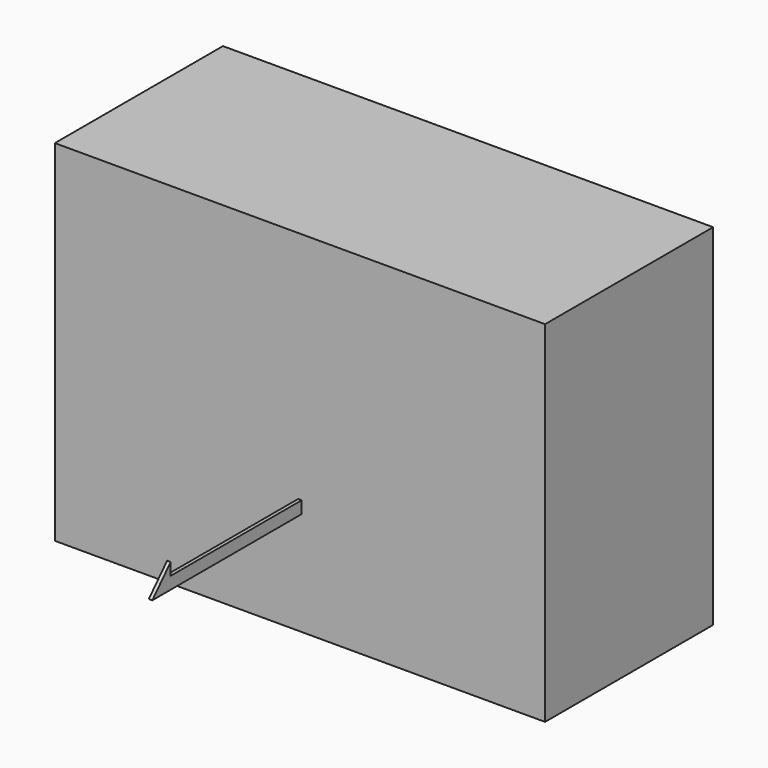
from build123d import *

# Parameters (mm, degrees)
F0_W     = 700
F0_H     = 500
F1_DEPTH = 300
F2_W     = 5
F2_H     = 34.9
F3_DEPTH = 266.7
F4_W     = 233.9330434799
F4_H     = 17.4498
F5_DEPTH = 25.4


with BuildPart() as f1:
    # F0 (on Front) → F1 (new body)
    with BuildSketch(Plane.XZ):
        with Locations((-350, -250)):
            Rectangle(F0_W, F0_H)
    extrude(amount=F1_DEPTH)

    # F2 (on face) → F3 (join)
    with BuildSketch(Plane.XZ.offset(300)):
        with Locations((-350, -334.2865335016)):
            Rectangle(F2_W, F2_H)
    extrude(amount=F3_DEPTH)

    # F4 (on face) → F5 (cut)
    with BuildSketch(Plane(origin=(-352.5, 0, 0), x_dir=(0, -1, 0), z_dir=(-1, 0, 0))):
        with Locations((416.96652174, -325.5614335016)):
            Rectangle(F4_W, F4_H)
        Polygon((533.9330434799, -316.8365335016), (566.7, -351.7365335016), (566.7, -316.8365335016), align=None)
    extrude(amount=-F5_DEPTH, mode=Mode.SUBTRACT)


solid = f1.part
